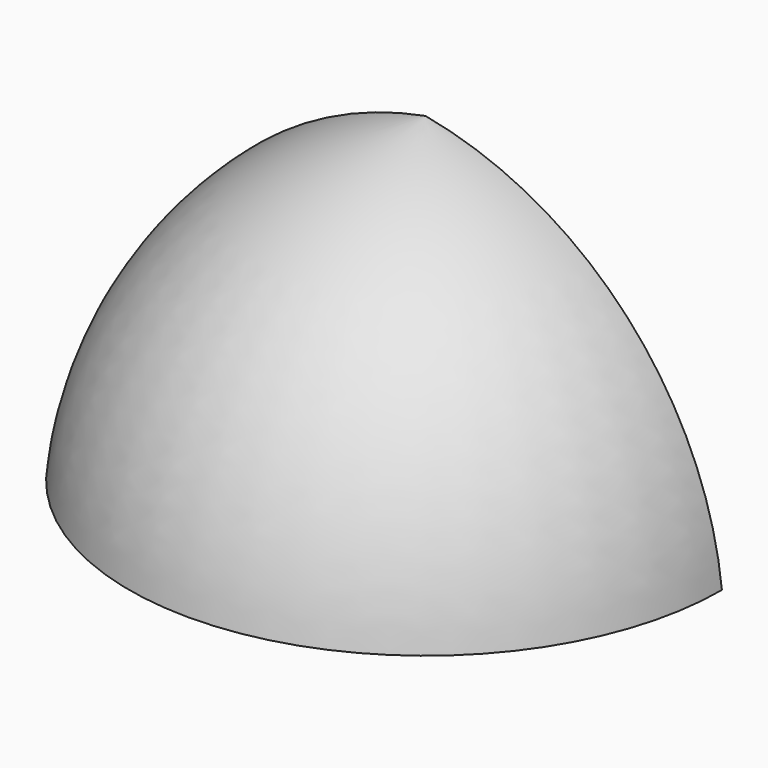
from build123d import *

# Parameters (mm, degrees)
F1_ANGLE = 180


with BuildPart() as f1:
    # F0 (on Front) → F1 (revolve)
    with BuildSketch(Plane.XZ):
        with BuildLine():
            Line((41.510064, 0), (51.510064, 0))
            ThreePointArc((51.510064, 0), (35.02, 36.449698), (0, 55.791422))
            Line((0, 55.791422), (0, 45.791422))
            ThreePointArc((0, 45.791422), (28.401822, 29.82755), (41.510064, 0))
        make_face()
    revolve(axis=Axis((0, 0, 27.895711), (0, 0, -1)), revolution_arc=F1_ANGLE)


solid = f1.part
